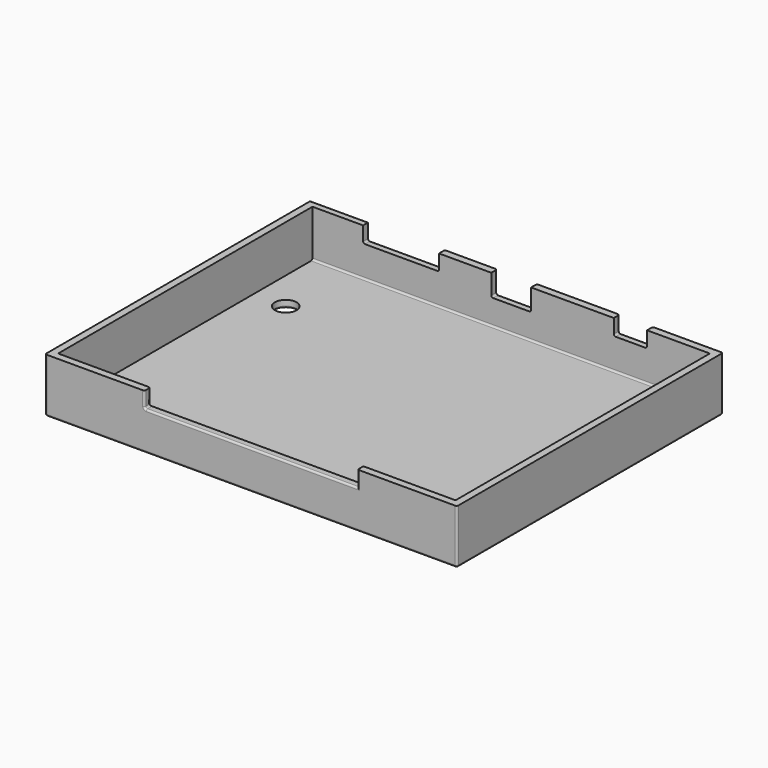
from build123d import *

# Parameters (mm, degrees)
SKETCH_W        = 114
SKETCH_H        = 92
SKETCH_R        = 3
PAD_DEPTH       = 2
SKETCH001_W     = 114
SKETCH001_H     = 92
SKETCH001_W_2   = 110
SKETCH001_H_2   = 88
PAD001_DEPTH    = 13
SKETCH003_W     = 59
SKETCH003_H     = 10
POCKET_DEPTH    = 5
SKETCH004_W     = 11
SKETCH004_H     = 6.2
POCKET001_DEPTH = 5
SKETCH005_W     = 21
SKETCH005_H     = 21
POCKET002_DEPTH = 5
SKETCH006_W     = 9.2
SKETCH006_H     = 11
POCKET003_DEPTH = 5
FILLET_R        = 0.5


with BuildPart() as part:
    # Sketch → Pad (new body)
    with BuildSketch(Plane.XY):
        Rectangle(SKETCH_W, SKETCH_H)
        with Locations((-46, 23.5)):
            Circle(SKETCH_R, mode=Mode.SUBTRACT)
        with Locations((46, -17.5)):
            Circle(SKETCH_R, mode=Mode.SUBTRACT)
    extrude(amount=PAD_DEPTH)

    # Sketch001 (on Face8 of Pad) → Pad001 (join)
    with BuildSketch(Plane.XY.offset(2)):
        Rectangle(SKETCH001_W, SKETCH001_H)
        Rectangle(SKETCH001_W_2, SKETCH001_H_2, mode=Mode.SUBTRACT)
    extrude(amount=PAD001_DEPTH)

    # Sketch003 (on Face12 of Pad001) → Pocket (cut)
    with BuildSketch(Plane.XZ.offset(46)):
        with Locations((0, 15.6)):
            Rectangle(SKETCH003_W, SKETCH003_H)
    extrude(amount=-POCKET_DEPTH, mode=Mode.SUBTRACT)

    # Sketch004 (on Face5 of Pocket) → Pocket001 (cut)
    with BuildSketch(Plane(origin=(0, 46, 0), x_dir=(-1, 0, 0), z_dir=(0, 1, 0))):
        with Locations((0, 12.1)):
            Rectangle(SKETCH004_W, SKETCH004_H)
    extrude(amount=-POCKET001_DEPTH, mode=Mode.SUBTRACT)

    # Sketch005 (on Face5 of Pocket001) → Pocket002 (cut)
    with BuildSketch(Plane(origin=(0, 46, 0), x_dir=(-1, 0, 0), z_dir=(0, 1, 0))):
        with Locations((30.48, 21.1)):
            Rectangle(SKETCH005_W, SKETCH005_H)
    extrude(amount=-POCKET002_DEPTH, mode=Mode.SUBTRACT)

    # Sketch006 (on Face5 of Pocket002) → Pocket003 (cut)
    with BuildSketch(Plane(origin=(0, 46, 0), x_dir=(-1, 0, 0), z_dir=(0, 1, 0))):
        with Locations((-33, 16.1)):
            Rectangle(SKETCH006_W, SKETCH006_H)
    extrude(amount=-POCKET003_DEPTH, mode=Mode.SUBTRACT)

    # Fillet
    fillet_edges = [part.edges().sort_by_distance(p)[0] for p in [
        (-57, 46, 1),
        (57, 46, 1),
        (0, 46, 0),
        (-57, -46, 1),
        (-57, 0, 0),
        (57, -46, 1),
        (57, 0, 0),
        (0, -46, 0),
        (43, -17.5, 0),
        (-49, 23.5, 0),
        (57, 46, 8.5),
        (37.6, 46, 12.8),
        (33, 46, 10.6),
        (28.4, 46, 12.8),
        (5.5, 46, 12),
        (0, 46, 9),
        (-5.5, 46, 12),
        (-19.98, 46, 12.8),
        (-40.98, 46, 12.8),
        (-48.99, 46, 15),
        (-57, 46, 8.5),
        (37.6, 45, 10.6),
        (28.4, 45, 10.6),
        (5.5, 45, 9),
        (-19.98, 45, 10.6),
        (-30.48, 46, 10.6),
        (-40.98, 45, 10.6),
        (57, -46, 8.5),
        (-57, -46, 8.5),
        (0, -46, 10.6),
        (29.5, -46, 12.8),
        (-29.5, -45, 10.6),
        (-29.5, -46, 12.8),
        (-29.5, -44, 12.8),
        (0, 44, 2),
        (55, 0, 2),
        (0, -44, 2),
        (-5.5, 45, 9),
    ]]
    fillet(fillet_edges, radius=FILLET_R)


solid = part.part
